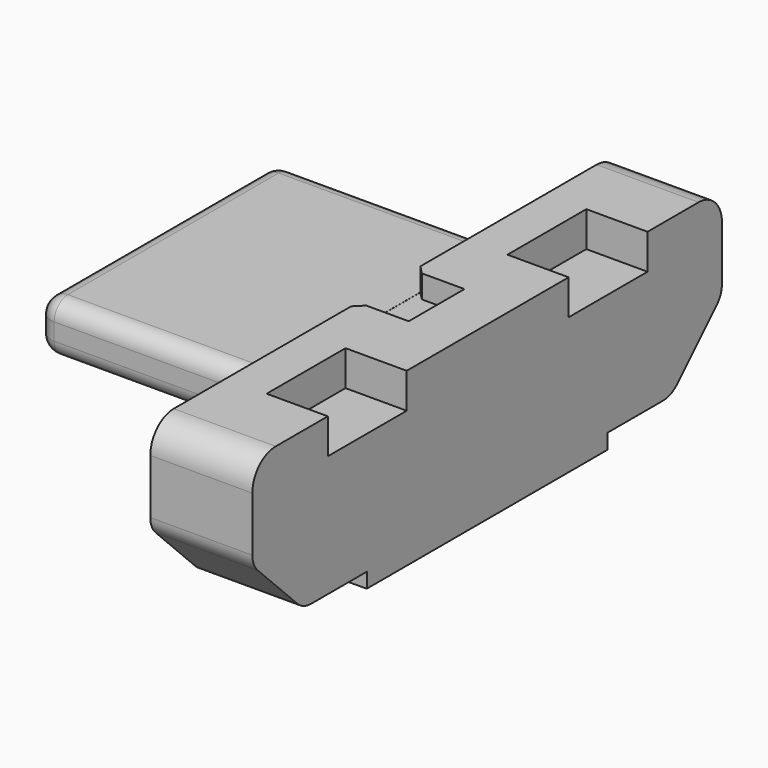
from build123d import *

# Parameters (mm, degrees)
PAD009_DEPTH    = 1.8
PAD008_DEPTH    = 1.2
SKETCH018_W     = 0.214
SKETCH018_H     = 0.247
POCKET007_DEPTH = 0.119
SKETCH019_W     = 0.72
SKETCH019_H     = 1.16
POCKET008_DEPTH = 0.414
POCKET009_DEPTH = 0.27
PAD013_DEPTH    = 2.7
FILLET001_R     = 0.2


with BuildPart() as pad009:
    # Sketch017 → Pad009 (new body, symmetric)
    with BuildSketch(Plane.XZ):
        Polygon((1.529, 0), (1.529, 0.264), (1.708, 0.264), (1.708, 0.145), (2.358, 0.145), (2.358, 0), align=None)
    extrude(amount=PAD009_DEPTH, both=True)


with BuildPart() as part_back:
    # Sketch016 → Pad008 (new body)
    with BuildSketch(Plane(origin=(1.1499999635, -0.0083336435, -0.0078429583), x_dir=(0, 1, 0), z_dir=(1, 0, 0))):
        with BuildLine():
            Line((-3.1093336572, 2.1718425317), (3.1093336572, 2.1718425317))
            ThreePointArc((3.4533336572, 1.8278425317), (3.35257839, 2.0710872645), (3.1093336572, 2.1718425317))
            Line((3.4533336572, 1.8278425317), (3.4533336572, 1.1848425317))
            ThreePointArc((3.3757169542, 0.9974592347), (3.4331617333, 1.0834314222), (3.4533336572, 1.1848425317))
            Line((2.7923538598, 0.4140961402), (3.3757169542, 0.9974592347))
            ThreePointArc((2.588, 0.32945), (2.698595512, 0.3514488151), (2.7923538598, 0.4140961402))
            Line((1.77, 0.32945), (2.588, 0.32945))
            Line((1.77, 0.05045), (1.77, 0.32945))
            Line((1.77, 0.05045), (-1.77, 0.05045))
            Line((-1.77, 0.05045), (-1.77, 0.32945))
            Line((-1.77, 0.32945), (-2.588, 0.32945))
            ThreePointArc((-2.7923538598, 0.4140961402), (-2.698595512, 0.3514488151), (-2.588, 0.32945))
            Line((-3.3757169542, 0.9974592347), (-2.7923538598, 0.4140961402))
            ThreePointArc((-3.4533336572, 1.1848425317), (-3.4331617333, 1.0834314222), (-3.3757169542, 0.9974592347))
            Line((-3.4533336572, 1.8278425317), (-3.4533336572, 1.1848425317))
            ThreePointArc((-3.1093336572, 2.1718425317), (-3.35257839, 2.0710872645), (-3.4533336572, 1.8278425317))
        make_face()
    extrude(amount=PAD008_DEPTH)

    # Cut: cut Pad009
    add(pad009.part, mode=Mode.SUBTRACT)

    # Sketch018 (on Face19 of Cut) → Pocket007 (cut)
    with BuildSketch(Plane(origin=(0, 0, 0.145), x_dir=(1, 0, 0), z_dir=(0, 0, -1))):
        with Locations((1.792, -1.3005)):
            Rectangle(SKETCH018_W, SKETCH018_H)
        with Locations((1.792, -0.6435)):
            Rectangle(SKETCH018_W, SKETCH018_H)
        with Locations((1.792, 0)):
            Rectangle(SKETCH018_W, SKETCH018_H)
        with Locations((1.792, 0.6435)):
            Rectangle(SKETCH018_W, SKETCH018_H)
        with Locations((1.792, 1.3005)):
            Rectangle(SKETCH018_W, SKETCH018_H)
    extrude(amount=-POCKET007_DEPTH, mode=Mode.SUBTRACT)

    # Sketch019 (on Face2 of Pocket007) → Pocket008 (cut)
    with BuildSketch(Plane.XY.offset(2.1639995734)):
        with Locations((1.9899999635, -1.771)):
            Rectangle(SKETCH019_W, SKETCH019_H)
        with Locations((1.9899999635, 1.771)):
            Rectangle(SKETCH019_W, SKETCH019_H)
    extrude(amount=-POCKET008_DEPTH, mode=Mode.SUBTRACT)

    # Sketch020 (on Face2 of Pocket008) → Pocket009 (cut)
    with BuildSketch(Plane.XY.offset(2.1639995734)):
        Polygon((1.249, 0.41), (1.749, 0.41), (1.749, -0.41), (1.249, -0.41), (1.146, -0.513), (1.146, 0.513), align=None)
    extrude(amount=-POCKET009_DEPTH, mode=Mode.SUBTRACT)


with BuildPart() as inner_union:
    # Sketch029 → Pad013 (new body)
    with BuildSketch(Plane(origin=(-1.5500000108, 1.37e-08, -0.0050004214), x_dir=(0, 1, 0), z_dir=(1, 0, 0))):
        with BuildLine():
            Line((-1.75, 1.6999999949), (-1.75, 1.5000000051))
            ThreePointArc((-1.75, 1.5000000051), (-1.6914213581, 1.3585786456), (-1.55, 1.3))
            Line((-1.55, 1.3), (-1.486, 1.3))
            Line((-1.486, 1.3), (-1.486, 1.514))
            Line((-1.486, 1.514), (-1.115, 1.514))
            Line((-1.115, 1.514), (-1.115, 1.3))
            Line((-1.115, 1.3), (-0.837, 1.3))
            Line((-0.837, 1.3), (-0.837, 1.514))
            Line((-0.837, 1.514), (-0.466, 1.514))
            Line((-0.466, 1.514), (-0.466, 1.3))
            Line((-0.466, 1.3), (-0.188, 1.3))
            Line((-0.188, 1.3), (-0.188, 1.514))
            Line((-0.188, 1.514), (0.183, 1.514))
            Line((0.183, 1.514), (0.183, 1.3))
            Line((0.183, 1.3), (0.461, 1.3))
            Line((0.461, 1.3), (0.461, 1.514))
            Line((0.461, 1.514), (0.832, 1.514))
            Line((0.832, 1.514), (0.832, 1.3))
            Line((0.832, 1.3), (1.11, 1.3))
            Line((1.11, 1.3), (1.11, 1.514))
            Line((1.11, 1.514), (1.481, 1.514))
            Line((1.481, 1.514), (1.481, 1.3))
            Line((1.481, 1.3), (1.55, 1.3))
            ThreePointArc((1.55, 1.3), (1.6914213581, 1.3585786456), (1.75, 1.5000000051))
            Line((1.75, 1.6999999949), (1.75, 1.5000000051))
            ThreePointArc((1.75, 1.6999999949), (1.6914213581, 1.8414213544), (1.55, 1.9))
            Line((-1.55, 1.9), (1.55, 1.9))
            ThreePointArc((-1.55, 1.9), (-1.6914213581, 1.8414213544), (-1.75, 1.6999999949))
        make_face()
    extrude(amount=PAD013_DEPTH)

    # Fillet001
    fillet001_edges = [inner_union.edges().sort_by_distance(p)[0] for p in [
        (-1.55, -1.75, 1.595),
        (-1.55, -1.691421, 1.353578),
        (-1.55, 1.691421, 1.353578),
        (-1.55, 1.75, 1.595),
        (-1.55, 1.691421, 1.836421),
        (-1.55, 0, 1.895),
        (-1.55, -1.691421, 1.836421),
    ]]
    fillet(fillet001_edges, radius=FILLET001_R)

    # Fusion002: union Part-back
    add(part_back.part)


solid = inner_union.part
